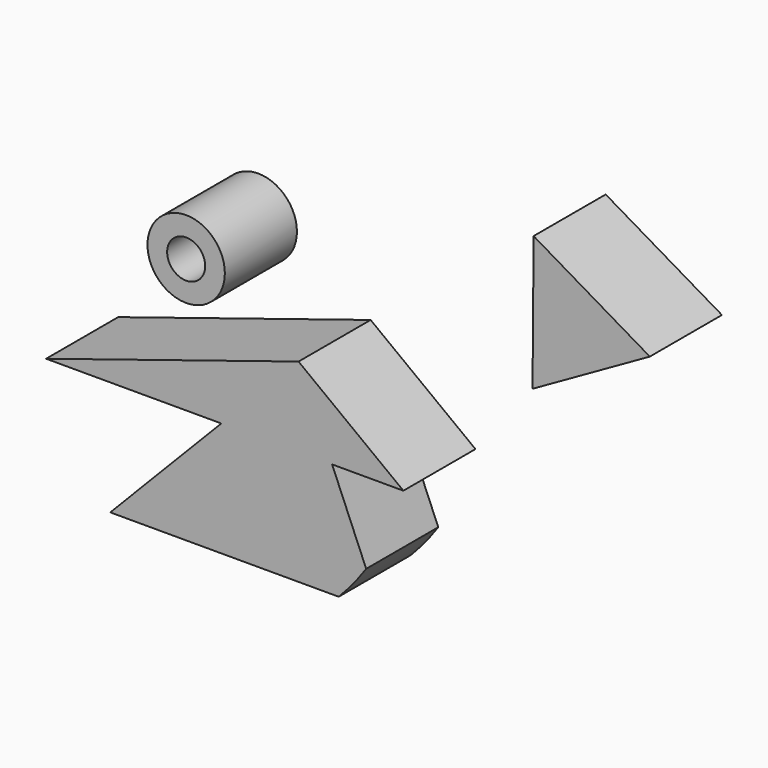
from build123d import *

# Parameters (mm, degrees)
F0_R     = 10.903736
F0_R_2   = 5.364604
F1_DEPTH = 25.4


with BuildPart() as f1:
    # F0 (on Front) → F1 (new body)
    with BuildSketch(Plane.XZ):
        Polygon((-44.827344, 32.240514), (-23.048093, 54.680253), (-94.208166, 32.240514), align=None)
        with BuildLine():
            Line((-13.589593, 32.240514), (-44.827344, 32.240514))
            Line((-44.827344, 32.240514), (-76.118895, 0))
            Line((-76.118895, 0), (-11.728096, 0))
            ThreePointArc((-11.728096, 0), (-7.659355, 4.565366), (-3.984738, 9.453557))
            Line((-3.984738, 9.453557), (-13.589593, 32.240514))
        make_face()
        Polygon((6.5002, 32.240514), (-23.048093, 54.680253), (-44.827344, 32.240514), (-13.589593, 32.240514), align=None)
        with Locations((-54.726478, 69.818258)):
            Circle(F0_R)
        with Locations((-54.726478, 69.818258)):
            Circle(F0_R_2, mode=Mode.SUBTRACT)
        Polygon((42.904512, 69.372174), (75.96644, 88.107262), (43.210413, 107.372187), align=None)
    extrude(amount=F1_DEPTH)


solid = f1.part
